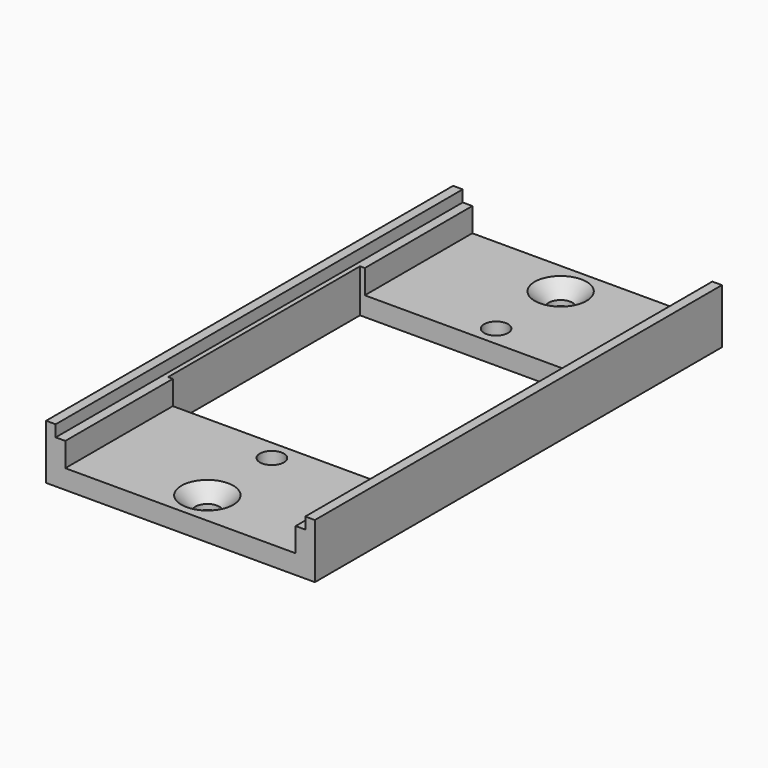
from build123d import *

# Parameters (mm, degrees)
F0_W           = 35.56
F0_H           = 67.31
F0_W_2         = 31.75
F0_H_2         = 31.75
F1_DEPTH       = 2.54
F3_D           = 3.175
F3_CSINK_D     = 6.858
F3_CSINK_ANGLE = 90
F4_D           = 3.175
F6_DEPTH       = 3.175
F7_DEPTH       = 4.699


with BuildPart() as f1:
    # F0 (on Top) → F1 (new body)
    with BuildSketch(Plane.XY):
        Rectangle(F0_W, F0_H)
        Rectangle(F0_W_2, F0_H_2, mode=Mode.SUBTRACT)
    extrude(amount=F1_DEPTH)

    # F3 (through all)
    with Locations(Plane.XY.offset(2.54)):
        with Locations((0, 29.21), (0, -29.21)):
            CounterSinkHole(F3_D / 2, F3_CSINK_D / 2, counter_sink_angle=F3_CSINK_ANGLE)

    # F4 (through all)
    with Locations(Plane(origin=(0, 0, 0), x_dir=(1, 0, 0), z_dir=(0, 0, -1))):
        with Locations((0, -18.542), (0, 18.542)):
            Hole(F4_D / 2)

    # F5 (on face) → F6 (join)
    with BuildSketch(Plane.XY.offset(2.54)):
        Polygon((-15.24, 33.655), (-16.51, 33.655), (-16.51, -33.655), (-15.24, -33.655), (-15.24, -15.875), (-15.875, -15.875), (-15.875, 15.875), (-15.24, 15.875), align=None)
        Polygon((16.51, 33.655), (15.24, 33.655), (15.24, 15.875), (15.875, 15.875), (15.875, -15.875), (15.24, -15.875), (15.24, -33.655), (16.51, -33.655), align=None)
    extrude(amount=F6_DEPTH)

    # F7 (add): faces of the model
    f7_faces = [f1.faces().sort_by_distance(p)[0] for p in [
        (-17.145, 0, 2.54),
        (17.145, 0, 2.54),
    ]]
    extrude(f7_faces, amount=F7_DEPTH)


solid = f1.part
